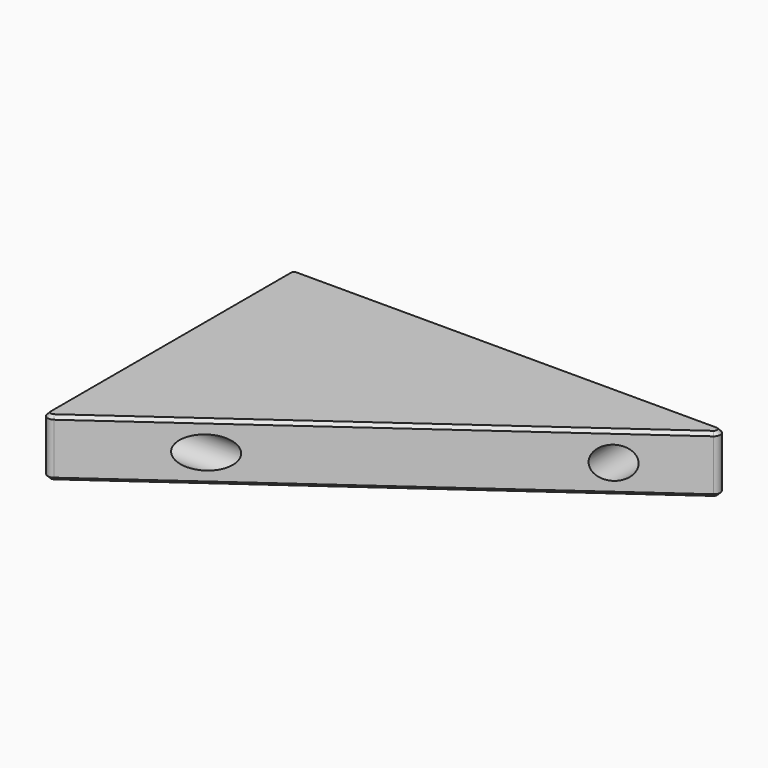
from build123d import *

# Parameters (mm, degrees)
PAD_DEPTH       = 9
SKETCH001_R     = 2
POCKET_DEPTH    = 135.76007
SKETCH002_R     = 2
POCKET001_DEPTH = 98.114621
SKETCH003_R     = 5
POCKET002_DEPTH = 93.114621
SKETCH004_R     = 5
POCKET003_DEPTH = 130.76007
CHAMFER_SIZE    = 1


with BuildPart() as part:
    # Sketch → Pad (new body, symmetric)
    with BuildSketch(Plane.XY):
        with BuildLine():
            Line((65.879535, 49.056811), (-65.879535, 49.056811))
            ThreePointArc((-65.879535, 49.056811), (-67.293749, 48.471024), (-67.879535, 47.056811))
            Line((-67.879535, 47.056811), (-67.879535, -47.056811))
            ThreePointArc((-67.879535, -47.056811), (-66.794698, -48.835146), (-64.717059, -48.684278))
            Line((-64.717059, -48.684278), (67.042011, 45.429344))
            ThreePointArc((67.042011, 45.429344), (67.784126, 47.667166), (65.879535, 49.056811))
        make_face()
    extrude(amount=PAD_DEPTH, both=True)

    # Sketch001 (on Face3 of Pad) → Pocket (cut, through all)
    with BuildSketch(Plane(origin=(-67.879535, 0, 0), x_dir=(0, -1, 0), z_dir=(-1, 0, 0))):
        with Locations((26.943189, 0)):
            Circle(SKETCH001_R)
    extrude(amount=-POCKET_DEPTH, mode=Mode.SUBTRACT)

    # Sketch002 (on Face1 of Pocket) → Pocket001 (cut, through all)
    with BuildSketch(Plane(origin=(0, 49.056811, 0), x_dir=(-1, 0, 0), z_dir=(0, 1, 0))):
        with Locations((-47.120465, 0)):
            Circle(SKETCH002_R)
    extrude(amount=-POCKET001_DEPTH, mode=Mode.SUBTRACT)

    # Sketch003 (on Face1 of Pocket001) → Pocket002 (cut, through all)
    with BuildSketch(Plane(origin=(0, 44.056811, 0), x_dir=(-1, 0, 0), z_dir=(0, 1, 0))):
        with Locations((-47.120465, 0)):
            Circle(SKETCH003_R)
    extrude(amount=-POCKET002_DEPTH, mode=Mode.SUBTRACT)

    # Sketch004 (on Face8 of Pocket002) → Pocket003 (cut, through all)
    with BuildSketch(Plane(origin=(-62.879535, 0, 0), x_dir=(0, -1, 0), z_dir=(-1, 0, 0))):
        with Locations((26.943189, 0)):
            Circle(SKETCH004_R)
    extrude(amount=-POCKET003_DEPTH, mode=Mode.SUBTRACT)

    # Chamfer
    chamfer_edges = [part.edges().sort_by_distance(p)[0] for p in [
        (0, 49.056811, 9),
        (-67.293749, 48.471024, 9),
        (-67.879535, 0, 9),
        (-66.794698, -48.835146, 9),
        (1.162476, -1.627467, 9),
        (67.784126, 47.667166, 9),
        (0, 49.056811, -9),
        (-67.293749, 48.471024, -9),
        (-67.879535, 0, -9),
        (-66.794698, -48.835146, -9),
        (1.162476, -1.627467, -9),
        (67.784126, 47.667166, -9),
    ]]
    chamfer(chamfer_edges, length=CHAMFER_SIZE)


solid = part.part
